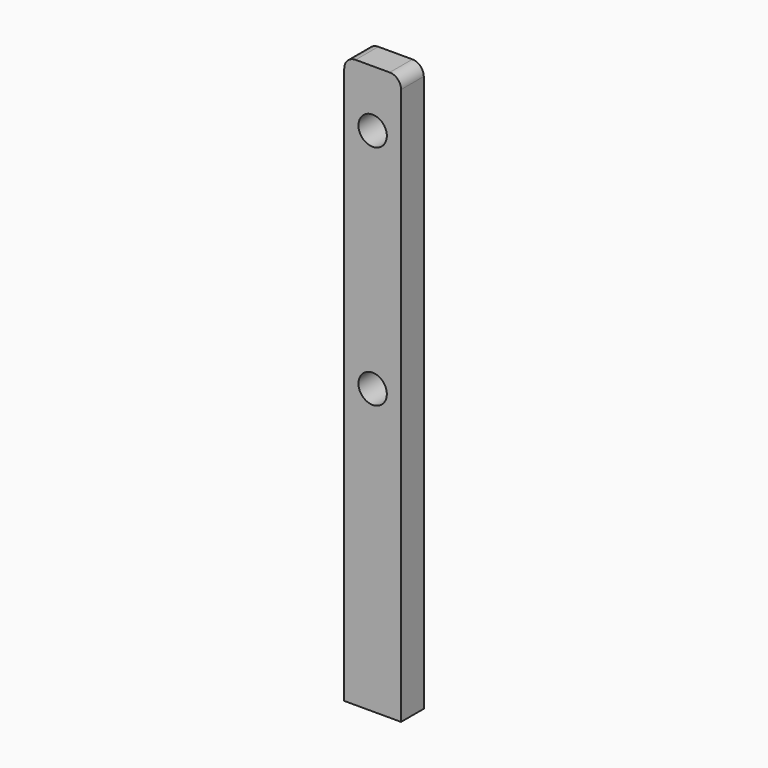
from build123d import *

# Parameters (mm, degrees)
F0_R     = 2.5
F1_DEPTH = 5
F2_DEPTH = 5
F3_DEPTH = 5


with BuildPart() as f1:
    # F0 (on Front) → F1 (new body)
    with BuildSketch(Plane.XZ):
        with BuildLine():
            Line((-7.80148, 38.926707), (-13.80148, 38.926707))
            ThreePointArc((-13.80148, 38.926707), (-15.215694, 38.340921), (-15.80148, 36.926707))
            Line((-15.80148, 36.926707), (-15.80148, -61.073293))
            Line((-15.80148, -61.073293), (-5.80148, -61.073293))
            Line((-5.80148, -61.073293), (-5.80148, 36.926707))
            ThreePointArc((-5.80148, 36.926707), (-6.387267, 38.340921), (-7.80148, 38.926707))
        make_face()
        with Locations((-10.80148, -11.073293)):
            Circle(F0_R, mode=Mode.SUBTRACT)
        with Locations((-10.80148, 28.926707)):
            Circle(F0_R, mode=Mode.SUBTRACT)
    extrude(amount=-F1_DEPTH)

    # F0 (on Front) → F2 (cut)
    with BuildSketch(Plane.XZ):
        with Locations((-10.80148, 28.926707)):
            Circle(F0_R)
    extrude(amount=-F2_DEPTH, mode=Mode.SUBTRACT)

    # F0 (on Front) → F3 (cut)
    with BuildSketch(Plane.XZ):
        with Locations((-10.80148, -11.073293)):
            Circle(F0_R)
    extrude(amount=-F3_DEPTH, mode=Mode.SUBTRACT)


solid = f1.part
